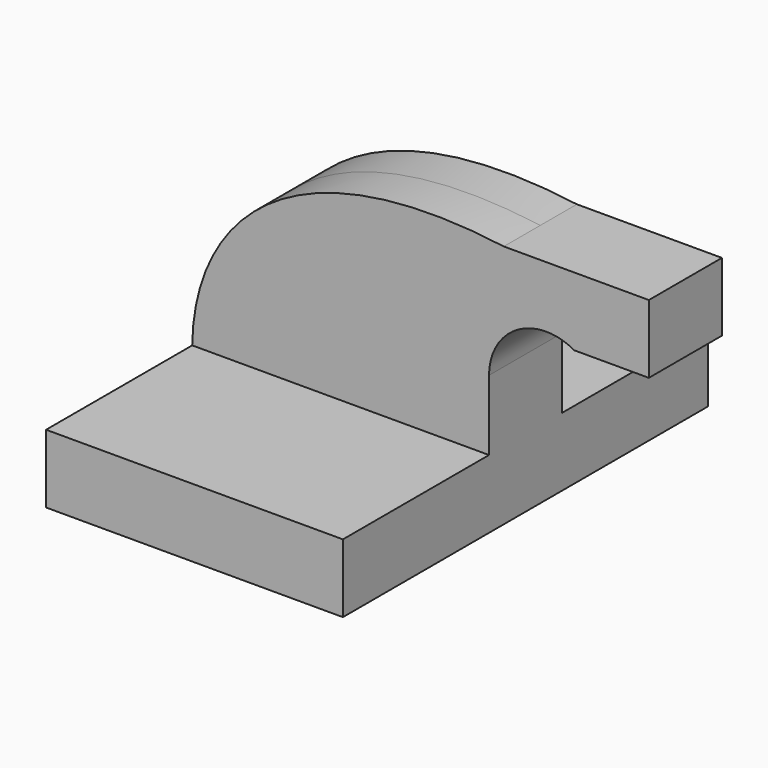
from build123d import *

# Parameters (mm, degrees)
F1_DEPTH = 63.5
F2_DEPTH = 12.7
F3_DEPTH = 12.7


with BuildPart() as f1:
    # F0 (on Front) → F1 (new body, symmetric)
    with BuildSketch(Plane.XZ):
        Polygon((-41.275, 9.525), (-41.275, -9.525), (41.275, -9.525), (41.275, 9.525), (22.225, 9.525), align=None)
    extrude(amount=F1_DEPTH, both=True)

    # F0 (on Front) → F2 (join, symmetric)
    with BuildSketch(Plane.XZ):
        with BuildLine():
            Line((22.225, 9.525), (41.275, 9.525))
            Line((41.275, 9.525), (41.275, 29.043647))
            ThreePointArc((41.275, 29.043647), (47.109768, 41.340369), (60.325, 44.597907))
            Line((60.325, 44.597907), (60.325, 61.9252))
            Line((60.325, 61.9252), (45.378887, 61.9252))
            ThreePointArc((45.378887, 61.9252), (28.59425, 49.151475), (22.225, 29.043647))
            Line((22.225, 29.043647), (22.225, 9.525))
        make_face()
        with BuildLine():
            Line((85.725, 61.9252), (60.325, 61.9252))
            Line((60.325, 61.9252), (60.325, 44.597907))
            ThreePointArc((60.325, 44.597907), (62.700375, 43.916743), (64.941262, 42.8752))
            Line((64.941262, 42.8752), (85.725, 42.8752))
            Line((85.725, 42.8752), (85.725, 61.9252))
        make_face()
    extrude(amount=F2_DEPTH, both=True)

    # F0 (on Front) → F3 (join, symmetric)
    with BuildSketch(Plane.XZ):
        with BuildLine():
            add(Edge.make_bspline(
                [(-41.275, 9.525), (-40.837802, 41.657459), (-14.82299, 70.037253), (45.378887, 61.9252)],
                knots=[0, 0, 0, 0, 101.265379, 101.265379, 101.265379, 101.265379], degree=3))
            Line((-41.275, 9.525), (22.225, 9.525))
            Line((22.225, 9.525), (22.225, 29.043647))
            ThreePointArc((22.225, 29.043647), (28.59425, 49.151475), (45.378887, 61.9252))
        make_face()
    extrude(amount=F3_DEPTH, both=True)


solid = f1.part
